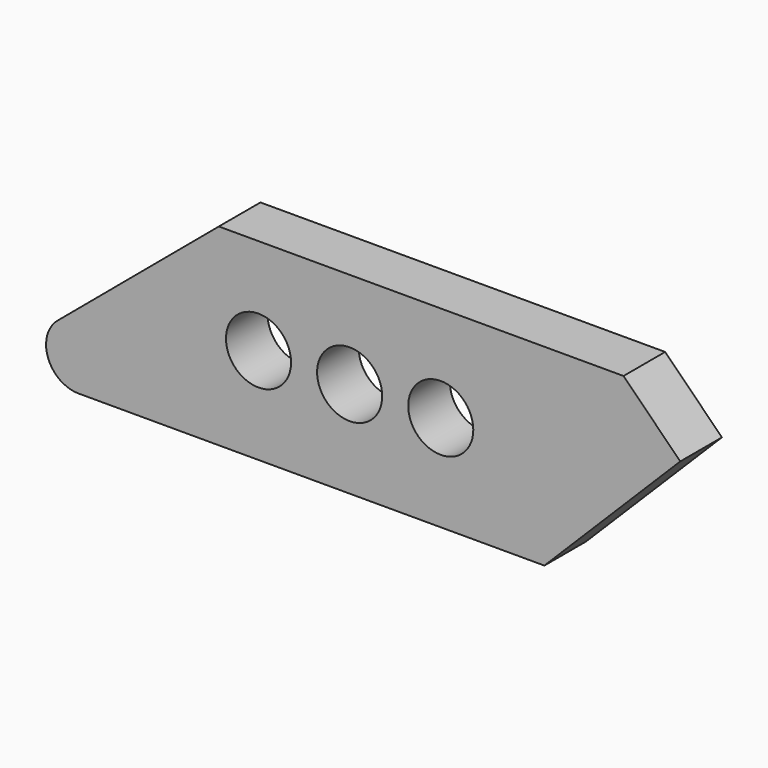
from build123d import *

# Parameters (mm, degrees)
F0_R     = 7.9375
F1_DEPTH = 12.7


with BuildPart() as f1:
    # F0 (on Front) → F1 (new body)
    with BuildSketch(Plane.XZ):
        with BuildLine():
            Line((-33.147, -33.147), (0, 0))
            Line((0, 0), (-13.843, 13.843))
            Line((-13.843, 13.843), (-112.556101, 13.843))
            Line((-112.556101, 13.843), (-151.850627, -19.129022))
            ThreePointArc((-151.850627, -19.129022), (-154.20731, -27.924285), (-146.7485, -33.147))
            Line((-146.7485, -33.147), (-33.147, -33.147))
        make_face()
        with Locations((-102.87, -9.652)):
            Circle(F0_R, mode=Mode.SUBTRACT)
        with Locations((-80.645, -9.652)):
            Circle(F0_R, mode=Mode.SUBTRACT)
        with Locations((-58.42, -9.652)):
            Circle(F0_R, mode=Mode.SUBTRACT)
    extrude(amount=F1_DEPTH)


solid = f1.part
